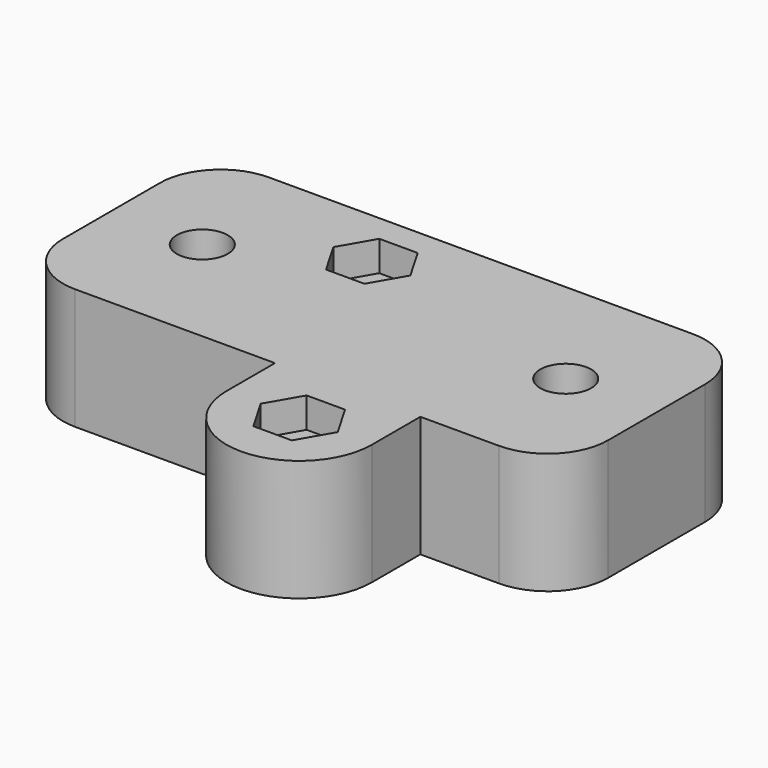
from build123d import *

# Parameters (mm, degrees)
SKETCH_R        = 2.1
SKETCH_R_2      = 1.5
PAD_DEPTH       = 10
POCKET_DEPTH    = 2.5
SKETCH002_R     = 2.1
SKETCH002_R_2   = 1.5
PAD001_DEPTH    = 2
SKETCH003_R     = 3.6
SKETCH003_R_2   = 2.1
POCKET001_DEPTH = 2.5
FILLET_R        = 1
FILLET001_R     = 5
SKETCH004_R     = 1.5
PAD002_DEPTH    = 0.1


with BuildPart() as part:
    # Sketch → Pad (new body)
    with BuildSketch(Plane.XY):
        with BuildLine():
            Line((-22.5, 10), (22.5, 10))
            Line((22.5, 10), (22.5, -10))
            Line((22.5, -10), (11, -10))
            Line((11, -15), (11, -10))
            ThreePointArc((-1, -15), (5, -21), (11, -15))
            Line((-1, -15), (-1, -10))
            Line((-22.5, -10), (-1, -10))
            Line((-22.5, -10), (-22.5, 10))
        make_face()
        with Locations((-15, 0)):
            Circle(SKETCH_R, mode=Mode.SUBTRACT)
        with Locations((15, 0)):
            Circle(SKETCH_R, mode=Mode.SUBTRACT)
        with Locations((-5, 5)):
            Circle(SKETCH_R_2, mode=Mode.SUBTRACT)
        with Locations((5, -15)):
            Circle(SKETCH_R_2, mode=Mode.SUBTRACT)
    extrude(amount=PAD_DEPTH)

    # Sketch001 → Pocket (cut)
    with BuildSketch(Plane.XY.offset(10)):
        Polygon((-3.412287, 2.25), (-1.824574, 5), (-3.412287, 7.75), (-6.587713, 7.75), (-8.175426, 5), (-6.587713, 2.25), align=None)
        Polygon((6.587713, -17.75), (8.175426, -15), (6.587713, -12.25), (3.412287, -12.25), (1.824574, -15), (3.412287, -17.75), align=None)
    extrude(amount=-POCKET_DEPTH, mode=Mode.SUBTRACT)

    # Sketch002 → Pad001 (new body)
    with BuildSketch(Plane(origin=(0, 0, 0), x_dir=(1, 0, 0), z_dir=(0, 0, -1))):
        with Locations((-5, -5)):
            Circle(SKETCH002_R)
        with Locations((-5, -5)):
            Circle(SKETCH002_R_2, mode=Mode.SUBTRACT)
        with Locations((5, 15)):
            Circle(SKETCH002_R)
        with Locations((5, 15)):
            Circle(SKETCH002_R_2, mode=Mode.SUBTRACT)
    extrude(amount=PAD001_DEPTH)

    # Sketch003 → Pocket001 (cut)
    with BuildSketch(Plane(origin=(0, 0, 0), x_dir=(1, 0, 0), z_dir=(0, 0, -1))):
        with Locations((15, 0)):
            Circle(SKETCH003_R)
        with Locations((15, 0)):
            Circle(SKETCH003_R_2, mode=Mode.SUBTRACT)
        with Locations((-15, 0)):
            Circle(SKETCH003_R)
        with Locations((-15, 0)):
            Circle(SKETCH003_R_2, mode=Mode.SUBTRACT)
    extrude(amount=-POCKET001_DEPTH, mode=Mode.SUBTRACT)

    # Fillet
    fillet_edges = [part.edges().sort_by_distance(p)[0] for p in [
        (2.9, -15, 0),
        (-7.1, 5, 0),
    ]]
    fillet(fillet_edges, radius=FILLET_R)

    # Fillet001
    fillet001_edges = [part.edges().sort_by_distance(p)[0] for p in [
        (22.5, 10, 5),
        (22.5, -10, 5),
        (-22.5, 10, 5),
        (-22.5, -10, 5),
    ]]
    fillet(fillet001_edges, radius=FILLET001_R)

    # Sketch004 → Pad002 (new body)
    with BuildSketch(Plane.XY.offset(7.5)):
        with Locations((-5, 5)):
            Circle(SKETCH004_R)
        with Locations((5, -15)):
            Circle(SKETCH004_R)
    extrude(amount=-PAD002_DEPTH)


solid = part.part
